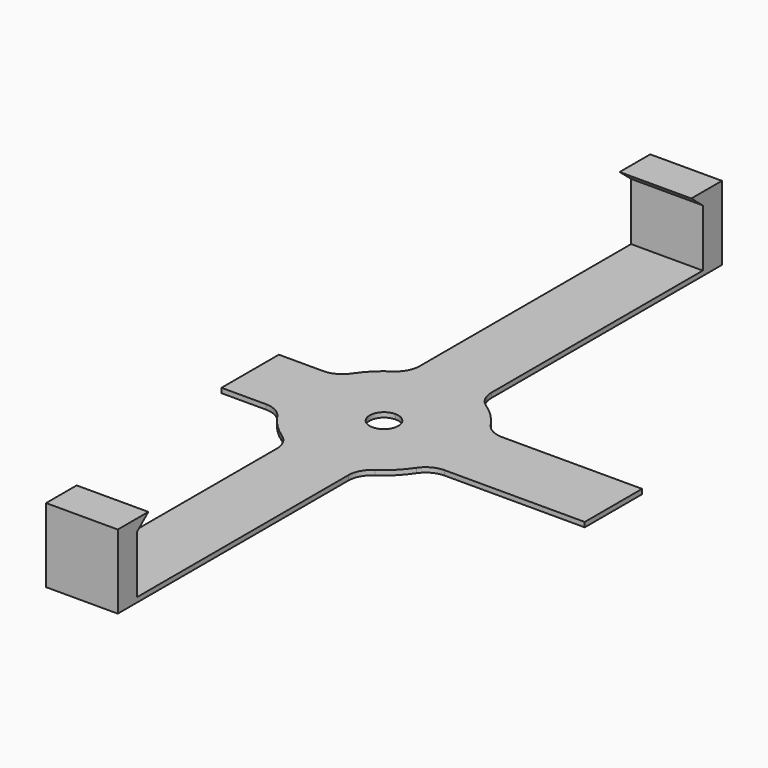
from build123d import *

# Parameters (mm, degrees)
F1_DEPTH = 1
F3_DEPTH = 15


with BuildPart() as f1:
    # F0 (on Top) → F1 (new body)
    with BuildSketch(Plane.XY):
        with BuildLine():
            ThreePointArc((-7.5, 18.7082869339), (-8.0904144816, 16.3512643299), (-9.7222222222, 14.5508898375))
            ThreePointArc((-9.7222222222, 14.5508898375), (-12.3743686708, 12.3743686708), (-14.5508898375, 9.7222222222))
            ThreePointArc((-14.5508898375, 9.7222222222), (-16.3512643299, 8.0904144816), (-18.7082869339, 7.5))
            Line((-18.7082869339, 7.5), (-28, 7.5))
            Line((-28, 7.5), (-28, -7.5))
            Line((-28, -7.5), (-18.7082869339, -7.5))
            ThreePointArc((-18.7082869339, -7.5), (-16.3512643299, -8.0904144816), (-14.5508898375, -9.7222222222))
            ThreePointArc((-14.5508898375, -9.7222222222), (-12.3743686708, -12.3743686708), (-9.7222222222, -14.5508898375))
            ThreePointArc((-9.7222222222, -14.5508898375), (-8.0904144816, -16.3512643299), (-7.5, -18.7082869339))
            Line((-7.5, -18.7082869339), (-7.5, -74))
            Line((-7.5, -74), (7.5, -74))
            Line((7.5, -74), (7.5, -18.7082869339))
            ThreePointArc((7.5, -18.7082869339), (8.0904144816, -16.3512643299), (9.7222222222, -14.5508898375))
            ThreePointArc((9.7222222222, -14.5508898375), (12.3743686708, -12.3743686708), (14.5508898375, -9.7222222222))
            ThreePointArc((14.5508898375, -9.7222222222), (16.3512643299, -8.0904144816), (18.7082869339, -7.5))
            Line((18.7082869339, -7.5), (48, -7.5))
            Line((48, -7.5), (48, 7.5))
            Line((48, 7.5), (18.7082869339, 7.5))
            ThreePointArc((18.7082869339, 7.5), (16.3512643299, 8.0904144816), (14.5508898375, 9.7222222222))
            ThreePointArc((14.5508898375, 9.7222222222), (12.3743686708, 12.3743686708), (9.7222222222, 14.5508898375))
            ThreePointArc((9.7222222222, 14.5508898375), (8.0904144816, 16.3512643299), (7.5, 18.7082869339))
            Line((7.5, 18.7082869339), (7.5, 74))
            Line((7.5, 74), (-7.5, 74))
            Line((-7.5, 74), (-7.5, 18.7082869339))
        make_face()
        with BuildLine():
            ThreePointArc((0, 3), (2.1213203436, 2.1213203436), (3, 0))
            ThreePointArc((3, 0), (-2.1213203436, -2.1213203436), (0, 3))
        make_face(mode=Mode.SUBTRACT)
    extrude(amount=F1_DEPTH)

    # F2 (on face) → F3 (join)
    with BuildSketch(Plane.YZ.offset(7.5)):
        Polygon((-79, 0), (-74, 0), (-74, 13), (-74, 15.5), (-79, 15.5), align=None)
        Polygon((-74, 15.5), (-74, 13), (-71, 15.5), align=None)
        Polygon((74, 1), (74, 0), (79, 0), (79, 15.5), (71, 15.5), (74, 13), align=None)
    extrude(amount=-F3_DEPTH)


solid = f1.part
